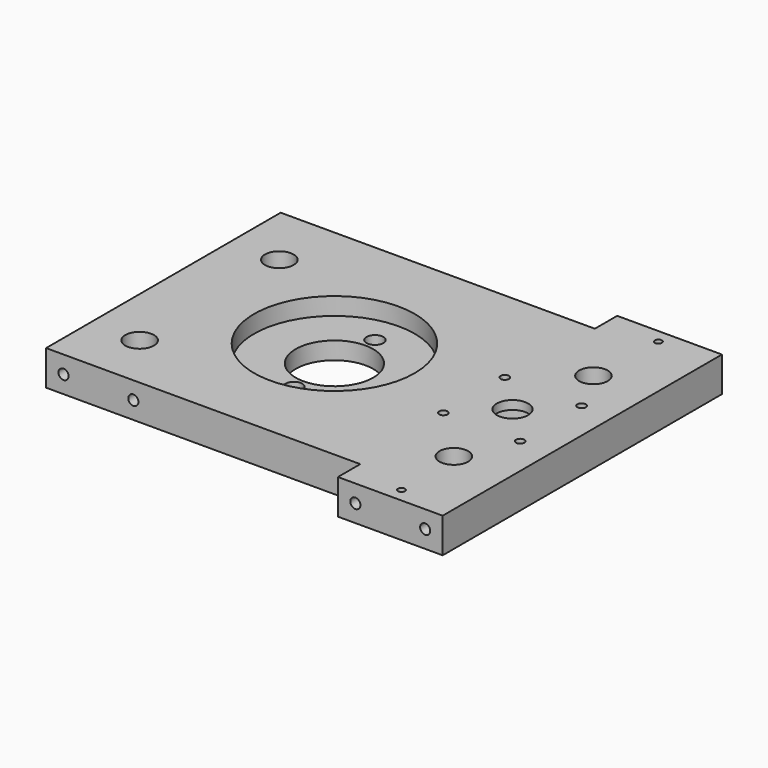
from build123d import *

# Parameters (mm, degrees)
CYLINDER027_R       = 4.1
CYLINDER027_DEPTH   = 24
ARRAY001005_X_COUNT = 2
ARRAY001005_X_PITCH = 90
ARRAY001005_Y_COUNT = 2
ARRAY001005_Y_PITCH = 50
CYLINDER028_R       = 4.5
CYLINDER028_DEPTH   = 10
CYLINDER016_R       = 1.2
CYLINDER016_DEPTH   = 20
ARRAY001006_X_COUNT = 2
ARRAY001006_X_PITCH = 22
ARRAY001006_Y_COUNT = 2
ARRAY001006_Y_PITCH = 22
CYLINDER029_R       = 11.1
CYLINDER029_DEPTH   = 30
CYLINDER036_R       = 2.4
CYLINDER036_DEPTH   = 30
ARRAY001018_Y_COUNT = 2
ARRAY001018_Y_PITCH = 29
CYLINDER037_R       = 23
CYLINDER037_DEPTH   = 30
CYLINDER039_R       = 1.45
CYLINDER039_DEPTH   = 40
ARRAY001020_X_COUNT = 2
ARRAY001020_X_PITCH = 20
ARRAY001021_X_COUNT = 2
ARRAY001021_X_PITCH = 90
CYLINDER040_R       = 1
CYLINDER040_DEPTH   = 10
ARRAY001022_Y_COUNT = 2
ARRAY001022_Y_PITCH = 92
CYLINDER026_R       = 11.2
CYLINDER026_DEPTH   = 10
BOX004_W            = 120
BOX004_H            = 84
BOX004_DEPTH        = 10
BOX019_W            = 30
BOX019_H            = 100
BOX019_DEPTH        = 10


with BuildPart() as rod_hole_array001:
    # Cylinder027 → Cylinder027 (new body)
    with BuildSketch(Plane(origin=(14, 14, 3), x_dir=(1, 0, 0), z_dir=(0, 0, 1))):
        Circle(CYLINDER027_R)
    extrude(amount=CYLINDER027_DEPTH)

    # Array001005 X: rod hole array001 ×2


with BuildPart() as rod_hole_array001_1:
    add(rod_hole_array001.part)
    with Locations(*[(i * ARRAY001005_X_PITCH, 0, 0) for i in range(1, ARRAY001005_X_COUNT)]):
        add(rod_hole_array001.part)

    # Array001005 Y: rod hole array001 ×2


with BuildPart() as rod_hole_array001_2:
    add(rod_hole_array001_1.part)
    with Locations(*[(0, i * ARRAY001005_Y_PITCH, 0) for i in range(1, ARRAY001005_Y_COUNT)]):
        add(rod_hole_array001_1.part)


with BuildPart() as bottom_side_lead_hole:
    # Cylinder028 → Cylinder028 (new body)
    with BuildSketch(Plane(origin=(100, 40, 4), x_dir=(1, 0, 0), z_dir=(0, 0, 1))):
        Circle(CYLINDER028_R)
    extrude(amount=CYLINDER028_DEPTH)


with BuildPart() as lead_holder_hole_array:
    # Cylinder016 → Cylinder016 (new body)
    with BuildSketch(Plane(origin=(-11, -11, 0), x_dir=(1, 0, 0), z_dir=(0, 0, 1))):
        Circle(CYLINDER016_R)
    extrude(amount=CYLINDER016_DEPTH)

    # Array001006 X: lead holder hole array ×2


with BuildPart() as lead_holder_hole_array_1:
    add(lead_holder_hole_array.part)
    with Locations(*[(i * ARRAY001006_X_PITCH, 0, 0) for i in range(1, ARRAY001006_X_COUNT)]):
        add(lead_holder_hole_array.part)

    # Array001006 Y: lead holder hole array ×2


with BuildPart() as lead_holder_hole_array_2:
    add(lead_holder_hole_array_1.part)
    with Locations(*[(0, i * ARRAY001006_Y_PITCH, 0) for i in range(1, ARRAY001006_Y_COUNT)]):
        add(lead_holder_hole_array_1.part)


with BuildPart() as lead_holder_hole_array_3:
    # Array001006 placement: moved
    add(lead_holder_hole_array_2.part.moved(Location((100, 40, -5))))


with BuildPart() as motor_bearing_hole:
    # Cylinder029 → Cylinder029 (new body)
    with BuildSketch(Plane(origin=(49, 40, 0), x_dir=(1, 0, 0), z_dir=(0, 0, 1))):
        Circle(CYLINDER029_R)
    extrude(amount=CYLINDER029_DEPTH)


with BuildPart() as motor_bolt_hole_array:
    # Cylinder036 → Cylinder036 (new body)
    with BuildSketch(Plane.XY):
        Circle(CYLINDER036_R)
    extrude(amount=CYLINDER036_DEPTH)

    # Array001018 Y: motor bolt hole array ×2


with BuildPart() as motor_bolt_hole_array_1:
    add(motor_bolt_hole_array.part)
    with Locations(*[(0, i * ARRAY001018_Y_PITCH, 0) for i in range(1, ARRAY001018_Y_COUNT)]):
        add(motor_bolt_hole_array.part)


with BuildPart() as motor_bolt_hole_array_2:
    # Array001018 placement: moved
    add(motor_bolt_hole_array_1.part.moved(Location((49, 25.5, -6))))


with BuildPart() as motor_body_bottom_hole:
    # Cylinder037 → Cylinder037 (new body)
    with BuildSketch(Plane(origin=(49, 40, 5), x_dir=(1, 0, 0), z_dir=(0, 0, 1))):
        Circle(CYLINDER037_R)
    extrude(amount=CYLINDER037_DEPTH)


with BuildPart() as side_connector_narrow_hole_array_array:
    # Cylinder039 → Cylinder039 (new body)
    with BuildSketch(Plane.XZ):
        Circle(CYLINDER039_R)
    extrude(amount=CYLINDER039_DEPTH)

    # Array001020 X: side connector narrow hole array array ×2


with BuildPart() as side_connector_narrow_hole_array_array_1:
    add(side_connector_narrow_hole_array_array.part)
    with Locations(*[(i * ARRAY001020_X_PITCH, 0, 0) for i in range(1, ARRAY001020_X_COUNT)]):
        add(side_connector_narrow_hole_array_array.part)


with BuildPart() as side_connector_narrow_hole_array_array_2:
    # Array001020 placement: moved
    add(side_connector_narrow_hole_array_array_1.part.moved(Location((5, 0, 5))))

    # Array001021 X: side connector narrow hole array array ×2


with BuildPart() as side_connector_narrow_hole_array_array_3:
    add(side_connector_narrow_hole_array_array_2.part)
    with Locations(*[(i * ARRAY001021_X_PITCH, 0, 0) for i in range(1, ARRAY001021_X_COUNT)]):
        add(side_connector_narrow_hole_array_array_2.part)


with BuildPart() as side_connector_narrow_hole_array_array_4:
    # Array001021 placement: moved
    add(side_connector_narrow_hole_array_array_3.part.moved(Location((0, 27, 0))))


with BuildPart() as body007:
    # Body007 base: copy of side connector narrow hole array array
    add(side_connector_narrow_hole_array_array_4.part)


with BuildPart() as body008:
    # Body008 base: copy of side connector narrow hole array array
    add(side_connector_narrow_hole_array_array_4.part)


with BuildPart() as body008_1:
    # Body008 placement: moved
    add(body008.part.moved(Location((0, 67, 0))))


with BuildPart() as pusher_hole_array:
    # Cylinder040 → Cylinder040 (new body)
    with BuildSketch(Plane(origin=(105, 0, 0), x_dir=(1, 0, 0), z_dir=(0, 0, 1))):
        Circle(CYLINDER040_R)
    extrude(amount=CYLINDER040_DEPTH)

    # Array001022 Y: pusher hole array ×2


with BuildPart() as pusher_hole_array_1:
    add(pusher_hole_array.part)
    with Locations(*[(0, i * ARRAY001022_Y_PITCH, 0) for i in range(1, ARRAY001022_Y_COUNT)]):
        add(pusher_hole_array.part)


with BuildPart() as pusher_hole_array_2:
    # Array001022 placement: moved
    add(pusher_hole_array_1.part.moved(Location((0, -6, 0))))


with BuildPart() as bottom_hole_fusion:
    # Cylinder026 → Cylinder026 (new body)
    with BuildSketch(Plane(origin=(100, 40, -2.5), x_dir=(1, 0, 0), z_dir=(0, 0, 1))):
        Circle(CYLINDER026_R)
    extrude(amount=CYLINDER026_DEPTH)

    # Fusion012: union rod hole array001, bottom side lead hole, lead holder hole array, motor bearing hole, motor bolt hole array, motor body bottom hole, Body007, Body008, pusher hole array
    add(rod_hole_array001_2.part)
    add(bottom_side_lead_hole.part)
    add(lead_holder_hole_array_3.part)
    add(motor_bearing_hole.part)
    add(motor_bolt_hole_array_2.part)
    add(motor_body_bottom_hole.part)
    add(body007.part)
    add(body008_1.part)
    add(pusher_hole_array_2.part)


with BuildPart() as bottom_side_cube:
    # Box004 → Box004 (new body)
    with BuildSketch(Plane(origin=(0, -2, 0), x_dir=(1, 0, 0), z_dir=(0, 0, 1))):
        with Locations((60, 42)):
            Rectangle(BOX004_W, BOX004_H)
    extrude(amount=BOX004_DEPTH)


with BuildPart() as bottom_side_cut:
    # Box019 → Box019 (new body)
    with BuildSketch(Plane(origin=(90, -10, 0), x_dir=(1, 0, 0), z_dir=(0, 0, 1))):
        with Locations((15, 50)):
            Rectangle(BOX019_W, BOX019_H)
    extrude(amount=BOX019_DEPTH)

    # Fusion014: union bottom side cube
    add(bottom_side_cube.part)

    # Cut004: cut bottom hole fusion
    add(bottom_hole_fusion.part, mode=Mode.SUBTRACT)


solid = bottom_side_cut.part
